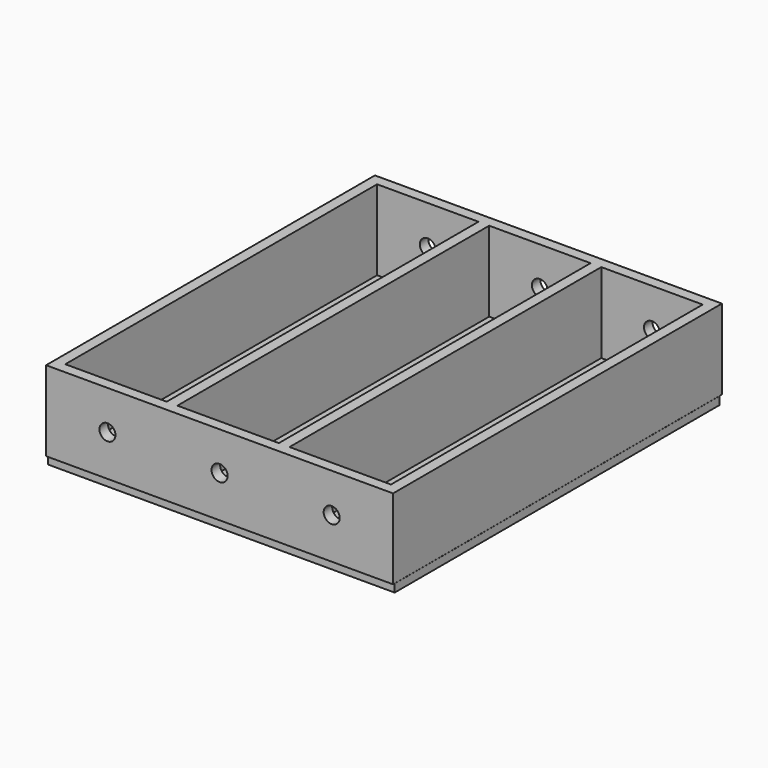
from build123d import *

# Parameters (mm, degrees)
F0_W     = 65
F0_H     = 77
F0_W_2   = 2
F0_H_2   = 73
F1_DEPTH = 15
F3_DEPTH = 1.5
F5_R     = 1.5
F6_DEPTH = 80


with BuildPart() as f1:
    # F0 (on Top) → F1 (new body)
    with BuildSketch(Plane.XY):
        Rectangle(F0_W, F0_H)
        Polygon((11.5, 36.5), (30.5, 36.5), (30.5, -36.5), (11.5, -36.5), (9.5, -36.5), (-9.5, -36.5), (-11.5, -36.5), (-30.5, -36.5), (-30.5, 36.5), (-11.5, 36.5), (-9.5, 36.5), (9.5, 36.5), align=None, mode=Mode.SUBTRACT)
        with Locations((-10.5, 0)):
            Rectangle(F0_W_2, F0_H_2)
        with Locations((10.5, 0)):
            Rectangle(F0_W_2, F0_H_2)
    extrude(amount=F1_DEPTH)

    # F2 (on Top) → F3 (join)
    with BuildSketch(Plane.XY):
        Polygon((-32.663561, 37.936784), (-32.45391, -38.147267), (32.517858, -38.147267), (32.517858, 37.936784), align=None)
    extrude(amount=-F3_DEPTH)

    # F5 (on face) → F6 (cut)
    with BuildSketch(Plane(origin=(0, 38.5, 0), x_dir=(-1, 0, 0), z_dir=(0, 1, 0))):
        with Locations((-21, 7.682957)):
            Circle(F5_R)
        with Locations((0, 7.79829)):
            Circle(F5_R)
        with Locations((21, 7.682957)):
            Circle(F5_R)
    extrude(amount=-F6_DEPTH, mode=Mode.SUBTRACT)


solid = f1.part
